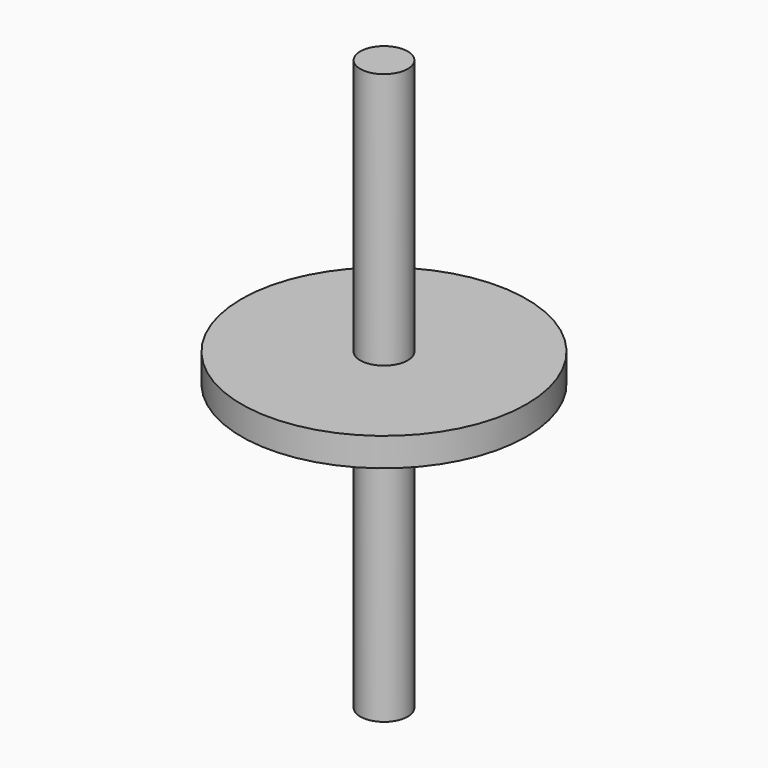
from build123d import *

# Parameters (mm, degrees)
F0_R          = 38.1
F1_DEPTH      = 7.62
F3_D          = 12.7
F4_R          = 6.35
F5_DEPTH      = 76.2
F5_DEPTH_BACK = 76.2


with BuildPart() as f1:
    # F0 (on Top) → F1 (new body)
    with BuildSketch(Plane.XY):
        Circle(F0_R)
    extrude(amount=F1_DEPTH)

    # F3 (through all)
    with Locations(Plane(origin=(0, 0, 0), x_dir=(1, 0, 0), z_dir=(0, 0, -1))):
        with Locations((0, 0)):
            Hole(F3_D / 2)

    # F4 (on Top) → F5 (join, two sides)
    with BuildSketch(Plane.XY) as f5_sk:
        Circle(F4_R)
    extrude(amount=F5_DEPTH)
    extrude(f5_sk.sketch, amount=-F5_DEPTH_BACK)


solid = f1.part
